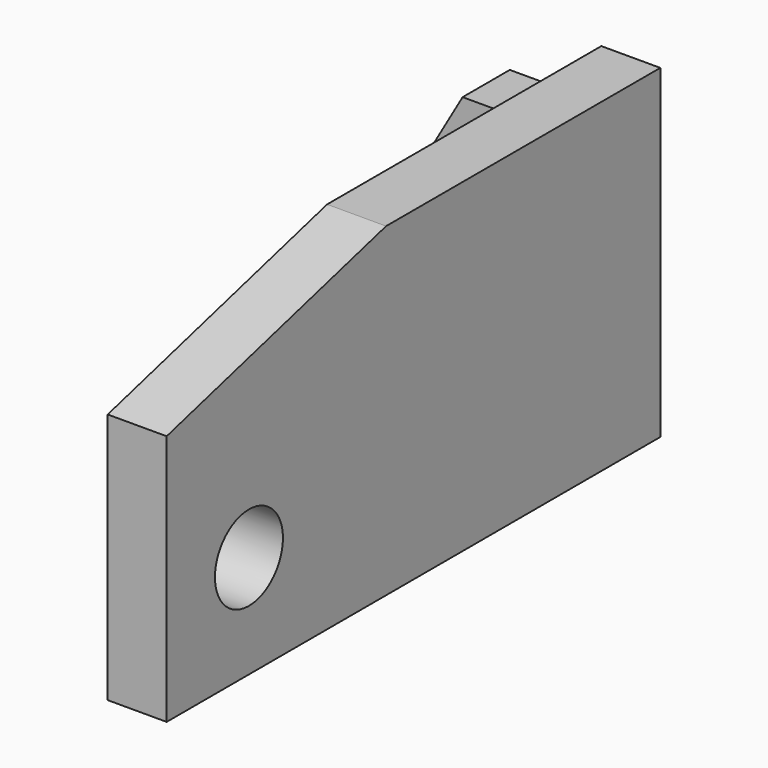
from build123d import *

# Parameters (mm, degrees)
F0_W     = 114.3
F0_H     = 60.198
F0_R     = 7.874
F2_DEPTH = 10.922
F3_SIZE2 = 13.6118189755
F3_SIZE  = 50.8
F4_DEPTH = 10.922
F5_W     = 44.45
F5_H     = 50.8
F6_DEPTH = 10.922
F7_SIZE2 = 16.5711074263
F7_SIZE  = 28.702


with BuildPart() as f2:
    # F0 (on Right) → F2 (new body)
    with BuildSketch(Plane.YZ):
        with Locations((-57.15, 30.099)):
            Rectangle(F0_W, F0_H)
        with Locations((-95.25, 19.05)):
            Circle(F0_R, mode=Mode.SUBTRACT)
    extrude(amount=-F2_DEPTH)

    # F3
    f3_edges = [f2.edges().sort_by_distance(p)[0] for p in [
        (-5.461, -114.3, 60.198),
    ]]
    f3_side = f2.faces().sort_by_distance((-5.461, -57.15, 60.198))[0]
    chamfer(f3_edges, length=F3_SIZE, length2=F3_SIZE2, reference=f3_side)

    # F1 (on Top) → F4 (join)
    with BuildSketch(Plane.XY):
        Polygon((0, -63.5), (0, 0), (-44.45, 0), (-44.45, -10.922), (-10.922, -63.5), align=None)
    extrude(amount=F4_DEPTH)

    # F5 (on Front) → F6 (join)
    with BuildSketch(Plane.XZ):
        with Locations((-22.225, 25.4)):
            Rectangle(F5_W, F5_H)
    extrude(amount=F6_DEPTH)

    # F7
    f7_edges = [f2.edges().sort_by_distance(p)[0] for p in [
        (-44.45, -5.461, 50.8),
    ]]
    f7_side = f2.faces().sort_by_distance((-44.45, -5.461, 25.4))[0]
    chamfer(f7_edges, length=F7_SIZE, length2=F7_SIZE2, reference=f7_side)


solid = f2.part
